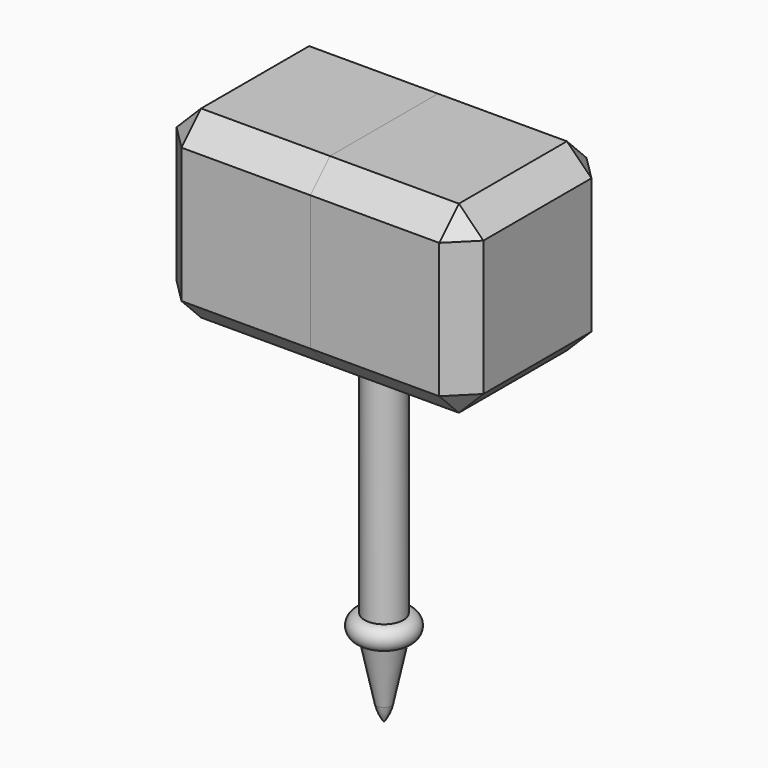
from build123d import *

# Parameters (mm, degrees)
F0_W     = 4.016376
F0_H     = 50.8
F2_W     = 31.75
F2_H     = 38.1
F3_DEPTH = 19.05
F4_SIZE  = 5.08


with BuildPart() as f1:
    # F0 (on Front) → F1 (revolve)
    with BuildSketch(Plane.XZ):
        with Locations((-2.008188, -25.4)):
            Rectangle(F0_W, F0_H)
        with BuildLine():
            Line((0, -55.372), (0, -50.8))
            Line((0, -50.8), (-4.016376, -50.8))
            ThreePointArc((-4.016376, -50.8), (-6.302376, -53.086), (-4.016376, -55.372))
            Line((-4.016376, -55.372), (0, -55.372))
        make_face()
        with BuildLine():
            Line((0, -59.944), (0, -55.372))
            Line((0, -55.372), (-4.016376, -55.372))
            Line((-4.016376, -55.372), (-1.507609, -67.271288))
            ThreePointArc((-1.507609, -67.271288), (-0.932851, -69.047733), (0, -70.665106))
            Line((0, -70.665106), (0, -67.114089))
            Line((0, -67.114089), (0, -59.944))
        make_face()
    revolve(axis=Axis((0, 0, -25.4), (0, 0, -1)))


with BuildPart() as f3:
    # F2 (on Front) → F3 (new body, symmetric)
    with BuildSketch(Plane.XZ):
        with Locations((-15.875, 19.05)):
            Rectangle(F2_W, F2_H)
    extrude(amount=F3_DEPTH, both=True)

    # F4
    f4_edges = [f3.edges().sort_by_distance(p)[0] for p in [
        (-15.875, -19.05, 38.1),
        (-31.75, 0, 38.1),
        (-15.875, 19.05, 38.1),
        (-31.75, -19.05, 19.05),
        (-15.875, -19.05, 0),
        (-31.75, 19.05, 19.05),
        (-31.75, 0, 0),
        (-15.875, 19.05, 0),
    ]]
    chamfer(f4_edges, length=F4_SIZE)


with BuildPart() as f5_1:
    # F5: instance of F3
    add(f3.part.mirror(Plane.YZ))


solid = Compound([f1.part, f3.part, f5_1.part])
